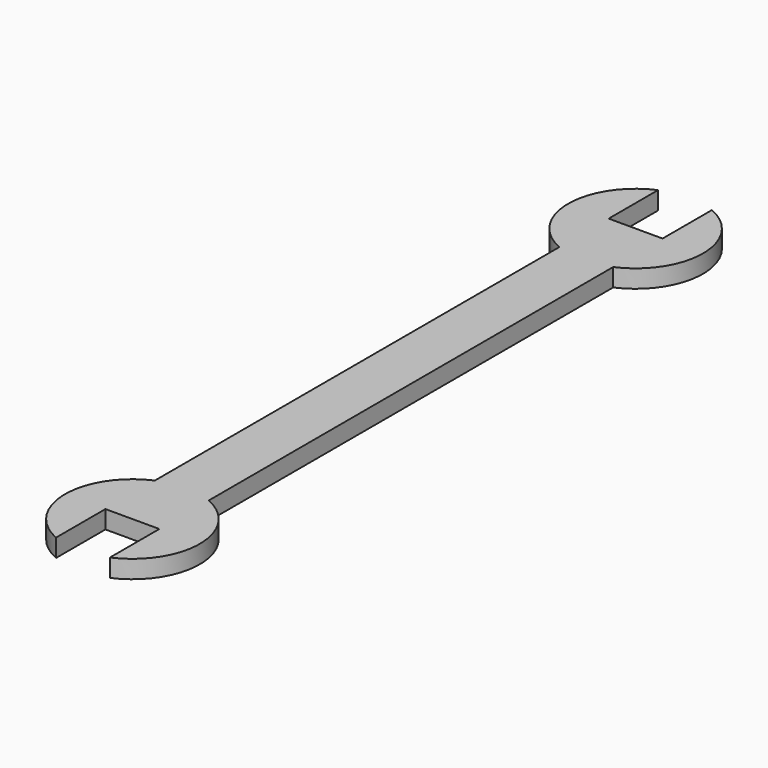
from build123d import *

# Parameters (mm, degrees)
F1_DEPTH = 2


with BuildPart() as f1:
    # F0 (on Top) → F1 (new body)
    with BuildSketch(Plane.XY):
        with BuildLine():
            Line((3, -28.126136), (3, 0))
            Line((3, 0), (3, 28.126136))
            ThreePointArc((3, 28.126136), (7.5, 35), (3, 41.873864))
            Line((3, 41.873864), (3, 35))
            Line((3, 35), (-3, 35))
            Line((-3, 35), (-3, 41.873864))
            ThreePointArc((-3, 41.873864), (-7.5, 35), (-3, 28.126136))
            Line((-3, 28.126136), (-3, 0))
            Line((-3, 0), (-3, -28.126136))
            ThreePointArc((-3, -28.126136), (-7.5, -35), (-3, -41.873864))
            Line((-3, -41.873864), (-3, -35))
            Line((-3, -35), (3, -35))
            Line((3, -35), (3, -41.873864))
            ThreePointArc((3, -41.873864), (7.5, -35), (3, -28.126136))
        make_face()
    extrude(amount=F1_DEPTH)


solid = f1.part
